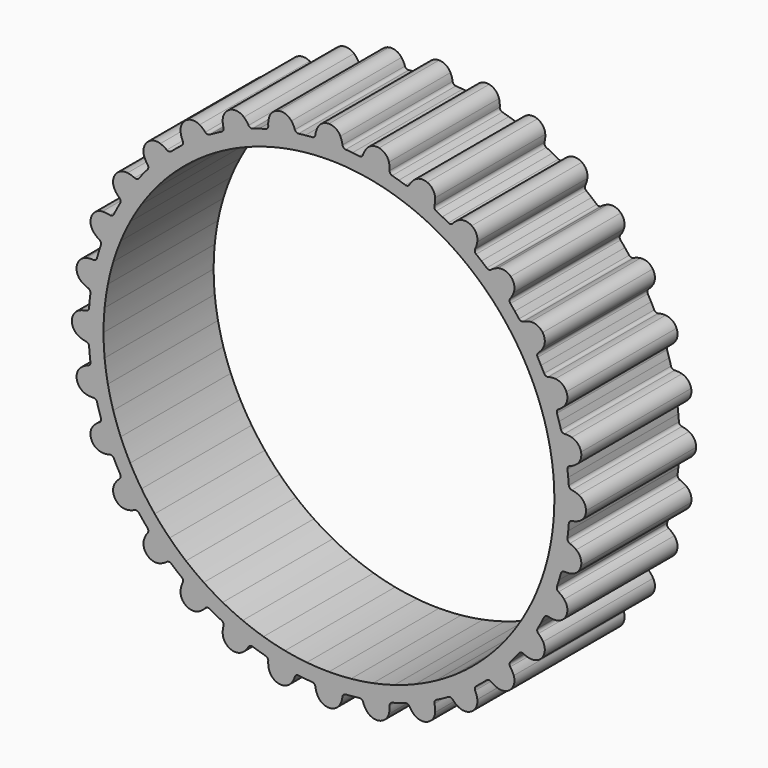
from build123d import *

# Parameters (mm, degrees)
F1_DEPTH = 6


with BuildPart() as f1:
    # F0 (on Front) → F1 (new body)
    with BuildSketch(Plane.XZ):
        with BuildLine():
            ThreePointArc((3.4477694654, 1.8728249677), (3.2430424726, 2.1002617792), (2.9488930609, 2.1846227205))
            ThreePointArc((2.9488930609, 2.1846227205), (2.6547436492, 2.1002617792), (2.4500166564, 1.8728249677))
            ThreePointArc((2.4500166564, 1.8728249677), (2.3912353576, 1.722531948), (2.3573945613, 1.5647408414))
            ThreePointArc((2.3573945613, 1.5647408414), (2.3114632827, 1.4750180124), (2.2191156309, 1.4346227205))
            ThreePointArc((2.2191156309, 1.4346227205), (2.0704486575, 1.4231811487), (1.921959525, 1.4096254825))
            Line((1.921959525, 1.4096254825), (1.9861895431, 0.7573388326))
            ThreePointArc((1.9861895431, 0.7573388326), (2.466961056, 0.792794628), (2.9488930609, 0.8046227205))
            ThreePointArc((2.9488930609, 0.8046227205), (3.4308250658, 0.792794628), (3.9115965787, 0.7573388326))
            Line((3.9115965787, 0.7573388326), (3.9758265968, 1.4096254825))
            ThreePointArc((3.9758265968, 1.4096254825), (3.8273374643, 1.4231811487), (3.6786704909, 1.4346227205))
            ThreePointArc((3.6786704909, 1.4346227205), (3.5863228391, 1.4750180124), (3.5403915604, 1.5647408414))
            ThreePointArc((3.5403915604, 1.5647408414), (3.5065507642, 1.722531948), (3.4477694654, 1.8728249677))
        make_face()
        with BuildLine():
            ThreePointArc((3.9762892721, 1.4095799129), (3.9760579347, 1.4096027003), (3.9758265968, 1.4096254825))
            Line((3.9758265968, 1.4096254825), (3.9115965787, 0.7573388326))
            ThreePointArc((3.9115965787, 0.7573388326), (3.9118134475, 0.7573174753), (3.9120303158, 0.7572961132))
            Line((3.9120303158, 0.7572961132), (3.9762892721, 1.4095799129))
        make_face()
        with BuildLine():
            Line((1.9861895431, 0.7573388326), (1.921959525, 1.4096254825))
            ThreePointArc((1.921959525, 1.4096254825), (1.9217281871, 1.4096027003), (1.9214968497, 1.4095799129))
            Line((1.9214968497, 1.4095799129), (1.985755806, 0.7572961132))
            ThreePointArc((1.985755806, 0.7572961132), (1.9859726743, 0.7573174753), (1.9861895431, 0.7573388326))
        make_face()
        with BuildLine():
            ThreePointArc((4.2726123259, 1.3761245556), (4.1245698068, 1.3939063182), (3.9762892721, 1.4095799129))
            Line((3.9762892721, 1.4095799129), (3.9120303158, 0.7572961132))
            ThreePointArc((3.9120303158, 0.7572961132), (4.3904810215, 0.6982767662), (4.8654603844, 0.6158573151))
            ThreePointArc((4.8654603844, 0.6158573151), (5.3358246545, 0.5102362261), (5.8004411951, 0.3816678346))
            Line((5.8004411951, 0.3816678346), (5.990691864, 1.0088903245))
            ThreePointArc((5.990691864, 1.0088903245), (5.8477004879, 1.0511543151), (5.7041222486, 1.091379528))
            ThreePointArc((5.7041222486, 1.091379528), (5.6214297616, 1.1490147689), (5.5938850951, 1.2459743468))
            ThreePointArc((5.5938850951, 1.2459743468), (5.5914780581, 1.4073355534), (5.563146939, 1.5662083973))
            ThreePointArc((5.563146939, 1.5662083973), (5.4067244388, 1.8292153292), (5.1346850288, 1.9693410021))
            ThreePointArc((5.1346850288, 1.9693410021), (4.8297296123, 1.9439867361), (4.5845656705, 1.7608603141))
            ThreePointArc((4.5845656705, 1.7608603141), (4.4975931243, 1.6249227952), (4.4336190516, 1.4767656123))
            ThreePointArc((4.4336190516, 1.4767656123), (4.371066274, 1.3977275303), (4.2726123259, 1.3761245556))
        make_face()
        with BuildLine():
            Line((1.985755806, 0.7572961132), (1.9214968497, 1.4095799129))
            ThreePointArc((1.9214968497, 1.4095799129), (1.773216315, 1.3939063182), (1.6251737959, 1.3761245556))
            ThreePointArc((1.6251737959, 1.3761245556), (1.5267198478, 1.3977275303), (1.4641670702, 1.4767656123))
            ThreePointArc((1.4641670702, 1.4767656123), (1.4001929975, 1.6249227952), (1.3132204513, 1.7608603141))
            ThreePointArc((1.3132204513, 1.7608603141), (1.0680565095, 1.9439867361), (0.763101093, 1.9693410021))
            ThreePointArc((0.763101093, 1.9693410021), (0.491061683, 1.8292153292), (0.3346391828, 1.5662083973))
            ThreePointArc((0.3346391828, 1.5662083973), (0.3063080637, 1.4073355534), (0.3039010267, 1.2459743468))
            ThreePointArc((0.3039010267, 1.2459743468), (0.2763563602, 1.1490147689), (0.1936638732, 1.091379528))
            ThreePointArc((0.1936638732, 1.091379528), (0.0500856339, 1.0511543151), (-0.0929057422, 1.0088903245))
            Line((-0.0929057422, 1.0088903245), (0.0973449267, 0.3816678346))
            ThreePointArc((0.0973449267, 0.3816678346), (0.5619614672, 0.5102362261), (1.0323257374, 0.6158573151))
            ThreePointArc((1.0323257374, 0.6158573151), (1.5073051003, 0.6982767662), (1.985755806, 0.7572961132))
        make_face()
        with BuildLine():
            Line((5.990691864, 1.0088903245), (5.8004411951, 0.3816678346))
            ThreePointArc((5.8004411951, 0.3816678346), (5.8006497302, 0.3816045787), (5.8008582639, 0.3815413182))
            Line((5.8008582639, 0.3815413182), (5.991136759, 1.0087553671))
            ThreePointArc((5.991136759, 1.0087553671), (5.9909143122, 1.0088228483), (5.990691864, 1.0088903245))
        make_face()
        with BuildLine():
            ThreePointArc((0.0969278578, 0.3815413182), (0.0971363915, 0.3816045787), (0.0973449267, 0.3816678346))
            Line((0.0973449267, 0.3816678346), (-0.0929057422, 1.0088903245))
            ThreePointArc((-0.0929057422, 1.0088903245), (-0.0931281904, 1.0088228483), (-0.0933506372, 1.0087553671))
            Line((-0.0933506372, 1.0087553671), (0.0969278578, 0.3815413182))
        make_face()
        with BuildLine():
            Line((5.991136759, 1.0087553671), (5.8008582639, 0.3815413182))
            ThreePointArc((5.8008582639, 0.3815413182), (6.2586015701, 0.2303149091), (6.7083751005, 0.0568152479))
            ThreePointArc((6.7083751005, 0.0568152479), (7.1490958008, -0.1385398785), (7.5797024159, -0.3552800549))
            Line((7.5797024159, -0.3552800549), (7.8886625091, 0.2227744665))
            ThreePointArc((7.8886625091, 0.2227744665), (7.7566639677, 0.2921225999), (7.6236920937, 0.3595856216))
            ThreePointArc((7.6236920937, 0.3595856216), (7.5538325974, 0.4322459214), (7.5457330692, 0.532716146))
            ThreePointArc((7.5457330692, 0.532716146), (7.5748522925, 0.6914464319), (7.5780601022, 0.8527937058))
            ThreePointArc((7.5780601022, 0.8527937058), (7.4759533235, 1.1412635492), (7.2364782371, 1.3317690027))
            ThreePointArc((7.2364782371, 1.3317690027), (6.9324360816, 1.3663957622), (6.6562567035, 1.2346171754))
            ThreePointArc((6.6562567035, 1.2346171754), (6.544435216, 1.1182591599), (6.4527863547, 0.9854294981))
            ThreePointArc((6.4527863547, 0.9854294981), (6.3760159463, 0.9201135522), (6.275239232, 0.9181330851))
            ThreePointArc((6.275239232, 0.9181330851), (6.1335103581, 0.9644548388), (5.991136759, 1.0087553671))
        make_face()
        with BuildLine():
            ThreePointArc((-0.8105889787, 0.0568152479), (-0.3608154483, 0.2303149091), (0.0969278578, 0.3815413182))
            Line((0.0969278578, 0.3815413182), (-0.0933506372, 1.0087553671))
            ThreePointArc((-0.0933506372, 1.0087553671), (-0.2357242363, 0.9644548388), (-0.3774531102, 0.9181330851))
            ThreePointArc((-0.3774531102, 0.9181330851), (-0.4782298245, 0.9201135522), (-0.5550002329, 0.9854294981))
            ThreePointArc((-0.5550002329, 0.9854294981), (-0.6466490943, 1.1182591599), (-0.7584705817, 1.2346171754))
            ThreePointArc((-0.7584705817, 1.2346171754), (-1.0346499598, 1.3663957622), (-1.3386921153, 1.3317690027))
            ThreePointArc((-1.3386921153, 1.3317690027), (-1.5781672017, 1.1412635492), (-1.6802739804, 0.8527937058))
            ThreePointArc((-1.6802739804, 0.8527937058), (-1.6770661707, 0.6914464319), (-1.6479469474, 0.532716146))
            ThreePointArc((-1.6479469474, 0.532716146), (-1.6560464756, 0.4322459214), (-1.7259059719, 0.3595856216))
            ThreePointArc((-1.7259059719, 0.3595856216), (-1.8588778459, 0.2921225999), (-1.9908763873, 0.2227744665))
            Line((-1.9908763873, 0.2227744665), (-1.6819162941, -0.3552800549))
            ThreePointArc((-1.6819162941, -0.3552800549), (-1.251309679, -0.1385398785), (-0.8105889787, 0.0568152479))
        make_face()
        with BuildLine():
            Line((7.8886625091, 0.2227744665), (7.5797024159, -0.3552800549))
            ThreePointArc((7.5797024159, -0.3552800549), (7.5798946035, -0.3553827786), (7.5800867887, -0.3554855065))
            Line((7.5800867887, -0.3554855065), (7.8890725266, 0.2225553075))
            ThreePointArc((7.8890725266, 0.2225553075), (7.8888675191, 0.2226648893), (7.8886625091, 0.2227744665))
        make_face()
        with BuildLine():
            ThreePointArc((-1.682300667, -0.3554855065), (-1.6821084817, -0.3553827786), (-1.6819162941, -0.3552800549))
            Line((-1.6819162941, -0.3552800549), (-1.9908763873, 0.2227744665))
            ThreePointArc((-1.9908763873, 0.2227744665), (-1.9910813973, 0.2226648893), (-1.9912864048, 0.2225553075))
            Line((-1.9912864048, 0.2225553075), (-1.682300667, -0.3554855065))
        make_face()
        with BuildLine():
            Line((7.8890725266, 0.2225553075), (7.5800867887, -0.3554855065))
            ThreePointArc((7.5800867887, -0.3554855065), (7.9995318767, -0.5931074315), (8.4068150301, -0.8510198083))
            ThreePointArc((8.4068150301, -0.8510198083), (8.8009555112, -1.128601584), (9.1810042302, -1.4251843419))
            Line((9.1810042302, -1.4251843419), (9.5968005845, -0.9185121001))
            ThreePointArc((9.5968005845, -0.9185121001), (9.4808675077, -0.8247448337), (9.3636120337, -0.7326365694))
            ThreePointArc((9.3636120337, -0.7326365694), (9.3092701892, -0.6477435052), (9.3209270597, -0.5476236482))
            ThreePointArc((9.3209270597, -0.5476236482), (9.3804535079, -0.3976241989), (9.4150769721, -0.2400029802))
            ThreePointArc((9.4150769721, -0.2400029802), (9.3712098212, 0.0628440404), (9.1735019516, 0.2964082567))
            ThreePointArc((9.1735019516, 0.2964082567), (8.8820572265, 0.3896853548), (8.5854758308, 0.3143187804))
            ThreePointArc((8.5854758308, 0.3143187804), (8.4531026392, 0.2220118415), (8.3373010035, 0.1096142703))
            ThreePointArc((8.3373010035, 0.1096142703), (8.2492632081, 0.0605305157), (8.1500365201, 0.0782486643))
            ThreePointArc((8.1500365201, 0.0782486643), (8.0200678527, 0.1513302902), (7.8890725266, 0.2225553075))
        make_face()
        with BuildLine():
            ThreePointArc((-2.5090289083, -0.8510198083), (-2.1017457549, -0.5931074315), (-1.682300667, -0.3554855065))
            Line((-1.682300667, -0.3554855065), (-1.9912864048, 0.2225553075))
            ThreePointArc((-1.9912864048, 0.2225553075), (-2.1222817309, 0.1513302902), (-2.2522503983, 0.0782486643))
            ThreePointArc((-2.2522503983, 0.0782486643), (-2.3514770863, 0.0605305157), (-2.4395148818, 0.1096142703))
            ThreePointArc((-2.4395148818, 0.1096142703), (-2.5553165174, 0.2220118415), (-2.687689709, 0.3143187804))
            ThreePointArc((-2.687689709, 0.3143187804), (-2.9842711047, 0.3896853548), (-3.2757158299, 0.2964082567))
            ThreePointArc((-3.2757158299, 0.2964082567), (-3.4734236994, 0.0628440404), (-3.5172908503, -0.2400029802))
            ThreePointArc((-3.5172908503, -0.2400029802), (-3.4826673861, -0.3976241989), (-3.423140938, -0.5476236482))
            ThreePointArc((-3.423140938, -0.5476236482), (-3.4114840674, -0.6477435052), (-3.4658259119, -0.7326365694))
            ThreePointArc((-3.4658259119, -0.7326365694), (-3.583081386, -0.8247448337), (-3.6990144627, -0.9185121001))
            Line((-3.6990144627, -0.9185121001), (-3.2832181084, -1.4251843419))
            ThreePointArc((-3.2832181084, -1.4251843419), (-2.9031693894, -1.128601584), (-2.5090289083, -0.8510198083))
        make_face()
        with BuildLine():
            Line((9.5968005845, -0.9185121001), (9.1810042302, -1.4251843419))
            ThreePointArc((9.1810042302, -1.4251843419), (9.1811726845, -1.4253225857), (9.1813411358, -1.4254608332))
            Line((9.1813411358, -1.4254608332), (9.5971599679, -0.9188070384))
            ThreePointArc((9.5971599679, -0.9188070384), (9.5969802778, -0.9186595673), (9.5968005845, -0.9185121001))
        make_face()
        with BuildLine():
            ThreePointArc((-3.283555014, -1.4254608332), (-3.2833865627, -1.4253225857), (-3.2832181084, -1.4251843419))
            Line((-3.2832181084, -1.4251843419), (-3.6990144627, -0.9185121001))
            ThreePointArc((-3.6990144627, -0.9185121001), (-3.699194156, -0.9186595673), (-3.6993738461, -0.9188070384))
            Line((-3.6993738461, -0.9188070384), (-3.283555014, -1.4254608332))
        make_face()
        with BuildLine():
            Line((9.5971599679, -0.9188070384), (9.1813411358, -1.4254608332))
            ThreePointArc((9.1813411358, -1.4254608332), (9.5463689662, -1.7403465968), (9.8955100793, -2.0727602612))
            ThreePointArc((9.8955100793, -2.0727602612), (10.2279237436, -2.4219013743), (10.5428095072, -2.7869292046))
            Line((10.5428095072, -2.7869292046), (11.049463302, -2.3711103725))
            ThreePointArc((11.049463302, -2.3711103725), (10.954050933, -2.2565273965), (10.8570179209, -2.1433135585))
            ThreePointArc((10.8570179209, -2.1433135585), (10.820282055, -2.0494501229), (10.8512473572, -1.9535281834))
            ThreePointArc((10.8512473572, -1.9535281834), (10.9388934622, -1.8180239654), (11.0036020205, -1.6701860971))
            ThreePointArc((11.0036020205, -1.6701860971), (11.0196602874, -1.3646001405), (10.8713174373, -1.0969529031))
            ThreePointArc((10.8713174373, -1.0969529031), (10.6036702, -0.9486100531), (10.2980842433, -0.9646683199))
            ThreePointArc((10.2980842433, -0.9646683199), (10.150246375, -1.0293768782), (10.014742157, -1.1170229833))
            ThreePointArc((10.014742157, -1.1170229833), (9.9188202176, -1.1479882854), (9.8249567819, -1.1112524195))
            ThreePointArc((9.8249567819, -1.1112524195), (9.7117429439, -1.0142194074), (9.5971599679, -0.9188070384))
        make_face()
        with BuildLine():
            ThreePointArc((-3.9977239575, -2.0727602612), (-3.6485828444, -1.7403465968), (-3.283555014, -1.4254608332))
            Line((-3.283555014, -1.4254608332), (-3.6993738461, -0.9188070384))
            ThreePointArc((-3.6993738461, -0.9188070384), (-3.8139568221, -1.0142194074), (-3.9271706601, -1.1112524195))
            ThreePointArc((-3.9271706601, -1.1112524195), (-4.0210340958, -1.1479882854), (-4.1169560352, -1.1170229833))
            ThreePointArc((-4.1169560352, -1.1170229833), (-4.2524602532, -1.0293768782), (-4.4002981216, -0.9646683199))
            ThreePointArc((-4.4002981216, -0.9646683199), (-4.7058840782, -0.9486100531), (-4.9735313155, -1.0969529031))
            ThreePointArc((-4.9735313155, -1.0969529031), (-5.1218741656, -1.3646001405), (-5.1058158987, -1.6701860971))
            ThreePointArc((-5.1058158987, -1.6701860971), (-5.0411073404, -1.8180239654), (-4.9534612354, -1.9535281834))
            ThreePointArc((-4.9534612354, -1.9535281834), (-4.9224959332, -2.0494501229), (-4.9592317991, -2.1433135585))
            ThreePointArc((-4.9592317991, -2.1433135585), (-5.0562648112, -2.2565273965), (-5.1516771802, -2.3711103725))
            Line((-5.1516771802, -2.3711103725), (-4.6450233854, -2.7869292046))
            ThreePointArc((-4.6450233854, -2.7869292046), (-4.3301376218, -2.4219013743), (-3.9977239575, -2.0727602612))
        make_face()
        with BuildLine():
            Line((11.049463302, -2.3711103725), (10.5428095072, -2.7869292046))
            ThreePointArc((10.5428095072, -2.7869292046), (10.5429477547, -2.7870976559), (10.5430859985, -2.7872661102))
            Line((10.5430859985, -2.7872661102), (11.0497582403, -2.3714697559))
            ThreePointArc((11.0497582403, -2.3714697559), (11.0496107731, -2.3712900626), (11.049463302, -2.3711103725))
        make_face()
        with BuildLine():
            ThreePointArc((-4.6452998767, -2.7872661102), (-4.6451616329, -2.7870976559), (-4.6450233854, -2.7869292046))
            Line((-4.6450233854, -2.7869292046), (-5.1516771802, -2.3711103725))
            ThreePointArc((-5.1516771802, -2.3711103725), (-5.1518246513, -2.3712900626), (-5.1519721185, -2.3714697559))
            Line((-5.1519721185, -2.3714697559), (-4.6452998767, -2.7872661102))
        make_face()
        with BuildLine():
            Line((11.0497582403, -2.3714697559), (10.5430859985, -2.7872661102))
            ThreePointArc((10.5430859985, -2.7872661102), (10.8396687564, -3.1673148292), (11.1172505322, -3.5614553104))
            ThreePointArc((11.1172505322, -3.5614553104), (11.3751629089, -3.9687384637), (11.6127848339, -4.3881835517))
            Line((11.6127848339, -4.3881835517), (12.190825648, -4.0791978138))
            ThreePointArc((12.190825648, -4.0791978138), (12.1196006306, -3.9482024878), (12.0465190048, -3.8182338203))
            ThreePointArc((12.0465190048, -3.8182338203), (12.0288008561, -3.7190071324), (12.0778846107, -3.6309693369))
            ThreePointArc((12.0778846107, -3.6309693369), (12.1902821819, -3.5151677012), (12.2825891208, -3.3827945096))
            ThreePointArc((12.2825891208, -3.3827945096), (12.3579556952, -3.0862131139), (12.2646785971, -2.7947683888))
            ThreePointArc((12.2646785971, -2.7947683888), (12.0311143808, -2.5970605193), (11.7282673602, -2.5531933683))
            ThreePointArc((11.7282673602, -2.5531933683), (11.5706461416, -2.5878168325), (11.4206466922, -2.6473432807))
            ThreePointArc((11.4206466922, -2.6473432807), (11.3205268352, -2.6590001512), (11.2356337711, -2.6046583067))
            ThreePointArc((11.2356337711, -2.6046583067), (11.1435255068, -2.4874028327), (11.0497582403, -2.3714697559))
        make_face()
        with BuildLine():
            ThreePointArc((-5.2194644104, -3.5614553104), (-4.9418826346, -3.1673148292), (-4.6452998767, -2.7872661102))
            Line((-4.6452998767, -2.7872661102), (-5.1519721185, -2.3714697559))
            ThreePointArc((-5.1519721185, -2.3714697559), (-5.245739385, -2.4874028327), (-5.3378476493, -2.6046583067))
            ThreePointArc((-5.3378476493, -2.6046583067), (-5.4227407134, -2.6590001512), (-5.5228605705, -2.6473432807))
            ThreePointArc((-5.5228605705, -2.6473432807), (-5.6728600198, -2.5878168325), (-5.8304812384, -2.5531933683))
            ThreePointArc((-5.8304812384, -2.5531933683), (-6.133328259, -2.5970605193), (-6.3668924753, -2.7947683888))
            ThreePointArc((-6.3668924753, -2.7947683888), (-6.4601695734, -3.0862131139), (-6.384802999, -3.3827945096))
            ThreePointArc((-6.384802999, -3.3827945096), (-6.2924960601, -3.5151677012), (-6.1800984889, -3.6309693369))
            ThreePointArc((-6.1800984889, -3.6309693369), (-6.1310147343, -3.7190071324), (-6.148732883, -3.8182338203))
            ThreePointArc((-6.148732883, -3.8182338203), (-6.2218145088, -3.9482024878), (-6.2930395262, -4.0791978138))
            Line((-6.2930395262, -4.0791978138), (-5.7149987122, -4.3881835517))
            ThreePointArc((-5.7149987122, -4.3881835517), (-5.4773767871, -3.9687384637), (-5.2194644104, -3.5614553104))
        make_face()
        with BuildLine():
            Line((12.190825648, -4.0791978138), (11.6127848339, -4.3881835517))
            ThreePointArc((11.6127848339, -4.3881835517), (11.6128875619, -4.388375737), (11.6129902855, -4.3885679245))
            Line((11.6129902855, -4.3885679245), (12.1910448069, -4.0796078314))
            ThreePointArc((12.1910448069, -4.0796078314), (12.1909352297, -4.0794028214), (12.190825648, -4.0791978138))
        make_face()
        with BuildLine():
            ThreePointArc((-5.7152041637, -4.3885679245), (-5.7151014401, -4.388375737), (-5.7149987122, -4.3881835517))
            Line((-5.7149987122, -4.3881835517), (-6.2930395262, -4.0791978138))
            ThreePointArc((-6.2930395262, -4.0791978138), (-6.2931491079, -4.0794028214), (-6.2932586851, -4.0796078314))
            Line((-6.2932586851, -4.0796078314), (-5.7152041637, -4.3885679245))
        make_face()
        with BuildLine():
            Line((12.1910448069, -4.0796078314), (11.6129902855, -4.3885679245))
            ThreePointArc((11.6129902855, -4.3885679245), (11.8297304619, -4.8191745396), (12.0250855883, -5.25989524))
            ThreePointArc((12.0250855883, -5.25989524), (12.1985852495, -5.7096687704), (12.3498116586, -6.1674120765))
            Line((12.3498116586, -6.1674120765), (12.9770257076, -5.9771335815))
            ThreePointArc((12.9770257076, -5.9771335815), (12.9327251793, -5.8347599823), (12.8864034255, -5.6930311085))
            ThreePointArc((12.8864034255, -5.6930311085), (12.8883838927, -5.5922543941), (12.9536998385, -5.5154839857))
            ThreePointArc((12.9536998385, -5.5154839857), (13.0865295003, -5.4238351244), (13.2028875158, -5.3120136369))
            ThreePointArc((13.2028875158, -5.3120136369), (13.3346661027, -5.0358342589), (13.3000393432, -4.7317921033))
            ThreePointArc((13.3000393432, -4.7317921033), (13.1095338897, -4.4923170169), (12.8210640463, -4.3902102382))
            ThreePointArc((12.8210640463, -4.3902102382), (12.6597167724, -4.393418048), (12.5009864865, -4.4225372712))
            ThreePointArc((12.5009864865, -4.4225372712), (12.4005162618, -4.4144377431), (12.327855962, -4.3445782467))
            ThreePointArc((12.327855962, -4.3445782467), (12.2603929404, -4.2116063728), (12.1910448069, -4.0796078314))
        make_face()
        with BuildLine():
            ThreePointArc((-6.1272994665, -5.25989524), (-5.9319443402, -4.8191745396), (-5.7152041637, -4.3885679245))
            Line((-5.7152041637, -4.3885679245), (-6.2932586851, -4.0796078314))
            ThreePointArc((-6.2932586851, -4.0796078314), (-6.3626068186, -4.2116063728), (-6.4300698402, -4.3445782467))
            ThreePointArc((-6.4300698402, -4.3445782467), (-6.50273014, -4.4144377431), (-6.6032003647, -4.4225372712))
            ThreePointArc((-6.6032003647, -4.4225372712), (-6.7619306506, -4.393418048), (-6.9232779245, -4.3902102382))
            ThreePointArc((-6.9232779245, -4.3902102382), (-7.2117477679, -4.4923170169), (-7.4022532214, -4.7317921033))
            ThreePointArc((-7.4022532214, -4.7317921033), (-7.4368799809, -5.0358342589), (-7.3051013941, -5.3120136369))
            ThreePointArc((-7.3051013941, -5.3120136369), (-7.1887433785, -5.4238351244), (-7.0559137168, -5.5154839857))
            ThreePointArc((-7.0559137168, -5.5154839857), (-6.9905977709, -5.5922543941), (-6.9886173038, -5.6930311085))
            ThreePointArc((-6.9886173038, -5.6930311085), (-7.0349390575, -5.8347599823), (-7.0792395858, -5.9771335815))
            Line((-7.0792395858, -5.9771335815), (-6.4520255368, -6.1674120765))
            ThreePointArc((-6.4520255368, -6.1674120765), (-6.3007991277, -5.7096687704), (-6.1272994665, -5.25989524))
        make_face()
        with BuildLine():
            Line((12.9770257076, -5.9771335815), (12.3498116586, -6.1674120765))
            ThreePointArc((12.3498116586, -6.1674120765), (12.3498749191, -6.1676206102), (12.349938175, -6.1678291453))
            Line((12.349938175, -6.1678291453), (12.977160665, -5.9775784764))
            ThreePointArc((12.977160665, -5.9775784764), (12.9770931887, -5.9773560282), (12.9770257076, -5.9771335815))
        make_face()
        with BuildLine():
            ThreePointArc((-6.4521520532, -6.1678291453), (-6.4520887973, -6.1676206102), (-6.4520255368, -6.1674120765))
            Line((-6.4520255368, -6.1674120765), (-7.0792395858, -5.9771335815))
            ThreePointArc((-7.0792395858, -5.9771335815), (-7.0793070669, -5.9773560282), (-7.0793745432, -5.9775784764))
            Line((-7.0793745432, -5.9775784764), (-6.4521520532, -6.1678291453))
        make_face()
        with BuildLine():
            Line((12.977160665, -5.9775784764), (12.349938175, -6.1678291453))
            ThreePointArc((12.349938175, -6.1678291453), (12.4785065666, -6.6324456859), (12.5841276556, -7.102809956))
            ThreePointArc((12.5841276556, -7.102809956), (12.6665471066, -7.577789319), (12.7255664536, -8.0562400246))
            Line((12.7255664536, -8.0562400246), (13.3778502534, -7.9919810683))
            ThreePointArc((13.3778502534, -7.9919810683), (13.3621766586, -7.8437005336), (13.3443948961, -7.6956580145))
            ThreePointArc((13.3443948961, -7.6956580145), (13.3659978707, -7.5972040665), (13.4450359527, -7.5346512888))
            ThreePointArc((13.4450359527, -7.5346512888), (13.5931931356, -7.4706772161), (13.7291306545, -7.3837046699))
            ThreePointArc((13.7291306545, -7.3837046699), (13.9122570765, -7.1385407281), (13.9376113425, -6.8335853117))
            ThreePointArc((13.9376113425, -6.8335853117), (13.7974856696, -6.5615459016), (13.5344787377, -6.4051234014))
            ThreePointArc((13.5344787377, -6.4051234014), (13.3756058938, -6.3767922824), (13.2142446872, -6.3743852453))
            ThreePointArc((13.2142446872, -6.3743852453), (13.1172851093, -6.3468405789), (13.0596498684, -6.2641480919))
            ThreePointArc((13.0596498684, -6.2641480919), (13.0194246555, -6.1205698526), (12.977160665, -5.9775784764))
        make_face()
        with BuildLine():
            ThreePointArc((-6.6863415338, -7.102809956), (-6.5807204448, -6.6324456859), (-6.4521520532, -6.1678291453))
            Line((-6.4521520532, -6.1678291453), (-7.0793745432, -5.9775784764))
            ThreePointArc((-7.0793745432, -5.9775784764), (-7.1216385337, -6.1205698526), (-7.1618637466, -6.2641480919))
            ThreePointArc((-7.1618637466, -6.2641480919), (-7.2194989875, -6.3468405789), (-7.3164585654, -6.3743852453))
            ThreePointArc((-7.3164585654, -6.3743852453), (-7.477819772, -6.3767922824), (-7.6366926159, -6.4051234014))
            ThreePointArc((-7.6366926159, -6.4051234014), (-7.8996995478, -6.5615459016), (-8.0398252207, -6.8335853117))
            ThreePointArc((-8.0398252207, -6.8335853117), (-8.0144709547, -7.1385407281), (-7.8313445327, -7.3837046699))
            ThreePointArc((-7.8313445327, -7.3837046699), (-7.6954070139, -7.4706772161), (-7.5472498309, -7.5346512888))
            ThreePointArc((-7.5472498309, -7.5346512888), (-7.4682117489, -7.5972040665), (-7.4466087743, -7.6956580145))
            ThreePointArc((-7.4466087743, -7.6956580145), (-7.4643905368, -7.8437005336), (-7.4800641316, -7.9919810683))
            Line((-7.4800641316, -7.9919810683), (-6.8277803318, -8.0562400246))
            ThreePointArc((-6.8277803318, -8.0562400246), (-6.7687609848, -7.577789319), (-6.6863415338, -7.102809956))
        make_face()
        with BuildLine():
            Line((13.3778502534, -7.9919810683), (12.7255664536, -8.0562400246))
            ThreePointArc((12.7255664536, -8.0562400246), (12.7255878157, -8.0564568929), (12.725609173, -8.0566737617))
            Line((12.725609173, -8.0566737617), (13.3778958229, -7.9924437437))
            ThreePointArc((13.3778958229, -7.9924437437), (13.3778730407, -7.9922124057), (13.3778502534, -7.9919810683))
        make_face()
        with BuildLine():
            ThreePointArc((-6.8278230512, -8.0566737617), (-6.8278016939, -8.0564568929), (-6.8277803318, -8.0562400246))
            Line((-6.8277803318, -8.0562400246), (-7.4800641316, -7.9919810683))
            ThreePointArc((-7.4800641316, -7.9919810683), (-7.4800869189, -7.9922124057), (-7.4801097011, -7.9924437437))
            Line((-7.4801097011, -7.9924437437), (-6.8278230512, -8.0566737617))
        make_face()
        with BuildLine():
            Line((13.3778958229, -7.9924437437), (12.725609173, -8.0566737617))
            ThreePointArc((12.725609173, -8.0566737617), (12.7610649684, -8.5374452747), (12.7728930609, -9.0193772795))
            ThreePointArc((12.7728930609, -9.0193772795), (12.7610649684, -9.5013092844), (12.725609173, -9.9820807974))
            Line((12.725609173, -9.9820807974), (13.3778958229, -10.0463108154))
            ThreePointArc((13.3778958229, -10.0463108154), (13.3914514891, -9.897821683), (13.4028930609, -9.7491547095))
            ThreePointArc((13.4028930609, -9.7491547095), (13.4432883529, -9.6568070578), (13.5330111818, -9.6108757791))
            ThreePointArc((13.5330111818, -9.6108757791), (13.6908022885, -9.5770349828), (13.8410953081, -9.518253684))
            ThreePointArc((13.8410953081, -9.518253684), (14.0685321196, -9.3135266912), (14.1528930609, -9.0193772795))
            ThreePointArc((14.1528930609, -9.0193772795), (14.0685321196, -8.7252278678), (13.8410953081, -8.520500875))
            ThreePointArc((13.8410953081, -8.520500875), (13.6908022885, -8.4617195762), (13.5330111818, -8.42787878))
            ThreePointArc((13.5330111818, -8.42787878), (13.4432883529, -8.3819475013), (13.4028930609, -8.2895998495))
            ThreePointArc((13.4028930609, -8.2895998495), (13.3914514891, -8.1409328761), (13.3778958229, -7.9924437437))
        make_face()
        with BuildLine():
            ThreePointArc((-6.8751069391, -9.0193772795), (-6.8632788466, -8.5374452747), (-6.8278230512, -8.0566737617))
            Line((-6.8278230512, -8.0566737617), (-7.4801097011, -7.9924437437))
            ThreePointArc((-7.4801097011, -7.9924437437), (-7.4936653674, -8.1409328761), (-7.5051069391, -8.2895998495))
            ThreePointArc((-7.5051069391, -8.2895998495), (-7.5455022311, -8.3819475013), (-7.63522506, -8.42787878))
            ThreePointArc((-7.63522506, -8.42787878), (-7.7930161667, -8.4617195762), (-7.9433091863, -8.520500875))
            ThreePointArc((-7.9433091863, -8.520500875), (-8.1707459978, -8.7252278678), (-8.2551069391, -9.0193772795))
            ThreePointArc((-8.2551069391, -9.0193772795), (-8.1707459978, -9.3135266912), (-7.9433091863, -9.518253684))
            ThreePointArc((-7.9433091863, -9.518253684), (-7.7930161667, -9.5770349828), (-7.63522506, -9.6108757791))
            ThreePointArc((-7.63522506, -9.6108757791), (-7.5455022311, -9.6568070578), (-7.5051069391, -9.7491547095))
            ThreePointArc((-7.5051069391, -9.7491547095), (-7.4936653674, -9.897821683), (-7.4801097011, -10.0463108154))
            Line((-7.4801097011, -10.0463108154), (-6.8278230512, -9.9820807974))
            ThreePointArc((-6.8278230512, -9.9820807974), (-6.8632788466, -9.5013092844), (-6.8751069391, -9.0193772795))
        make_face()
        with BuildLine():
            Line((13.3778958229, -10.0463108154), (12.725609173, -9.9820807974))
            ThreePointArc((12.725609173, -9.9820807974), (12.7255878157, -9.9822976661), (12.7255664536, -9.9825145344))
            Line((12.7255664536, -9.9825145344), (13.3778502534, -10.0467734907))
            ThreePointArc((13.3778502534, -10.0467734907), (13.3778730407, -10.0465421533), (13.3778958229, -10.0463108154))
        make_face()
        with BuildLine():
            ThreePointArc((-6.8277803318, -9.9825145344), (-6.8278016939, -9.9822976661), (-6.8278230512, -9.9820807974))
            Line((-6.8278230512, -9.9820807974), (-7.4801097011, -10.0463108154))
            ThreePointArc((-7.4801097011, -10.0463108154), (-7.4800869189, -10.0465421533), (-7.4800641316, -10.0467734907))
            Line((-7.4800641316, -10.0467734907), (-6.8277803318, -9.9825145344))
        make_face()
        with BuildLine():
            Line((13.3778502534, -10.0467734907), (12.7255664536, -9.9825145344))
            ThreePointArc((12.7255664536, -9.9825145344), (12.6665471066, -10.4609652401), (12.5841276556, -10.935944603))
            ThreePointArc((12.5841276556, -10.935944603), (12.4785065666, -11.4063088732), (12.349938175, -11.8709254138))
            Line((12.349938175, -11.8709254138), (12.977160665, -12.0611760826))
            ThreePointArc((12.977160665, -12.0611760826), (13.0194246555, -11.9181847065), (13.0596498684, -11.7746064672))
            ThreePointArc((13.0596498684, -11.7746064672), (13.1172851093, -11.6919139802), (13.2142446872, -11.6643693137))
            ThreePointArc((13.2142446872, -11.6643693137), (13.3756058938, -11.6619622767), (13.5344787377, -11.6336311577))
            ThreePointArc((13.5344787377, -11.6336311577), (13.7974856696, -11.4772086574), (13.9376113425, -11.2051692474))
            ThreePointArc((13.9376113425, -11.2051692474), (13.9122570765, -10.900213831), (13.7291306545, -10.6550498891))
            ThreePointArc((13.7291306545, -10.6550498891), (13.5931931356, -10.5680773429), (13.4450359527, -10.5041032703))
            ThreePointArc((13.4450359527, -10.5041032703), (13.3659978707, -10.4415504926), (13.3443948961, -10.3430965446))
            ThreePointArc((13.3443948961, -10.3430965446), (13.3621766586, -10.1950540254), (13.3778502534, -10.0467734907))
        make_face()
        with BuildLine():
            ThreePointArc((-6.6863415338, -10.935944603), (-6.7687609848, -10.4609652401), (-6.8277803318, -9.9825145344))
            Line((-6.8277803318, -9.9825145344), (-7.4800641316, -10.0467734907))
            ThreePointArc((-7.4800641316, -10.0467734907), (-7.4643905368, -10.1950540254), (-7.4466087743, -10.3430965446))
            ThreePointArc((-7.4466087743, -10.3430965446), (-7.4682117489, -10.4415504926), (-7.5472498309, -10.5041032703))
            ThreePointArc((-7.5472498309, -10.5041032703), (-7.6954070139, -10.5680773429), (-7.8313445327, -10.6550498891))
            ThreePointArc((-7.8313445327, -10.6550498891), (-8.0144709547, -10.900213831), (-8.0398252207, -11.2051692474))
            ThreePointArc((-8.0398252207, -11.2051692474), (-7.8996995478, -11.4772086574), (-7.6366926159, -11.6336311577))
            ThreePointArc((-7.6366926159, -11.6336311577), (-7.477819772, -11.6619622767), (-7.3164585654, -11.6643693137))
            ThreePointArc((-7.3164585654, -11.6643693137), (-7.2194989875, -11.6919139802), (-7.1618637466, -11.7746064672))
            ThreePointArc((-7.1618637466, -11.7746064672), (-7.1216385337, -11.9181847065), (-7.0793745432, -12.0611760826))
            Line((-7.0793745432, -12.0611760826), (-6.4521520532, -11.8709254138))
            ThreePointArc((-6.4521520532, -11.8709254138), (-6.5807204448, -11.4063088732), (-6.6863415338, -10.935944603))
        make_face()
        with BuildLine():
            Line((12.977160665, -12.0611760826), (12.349938175, -11.8709254138))
            ThreePointArc((12.349938175, -11.8709254138), (12.3498749191, -11.8711339489), (12.3498116586, -11.8713424826))
            Line((12.3498116586, -11.8713424826), (12.9770257076, -12.0616209776))
            ThreePointArc((12.9770257076, -12.0616209776), (12.9770931887, -12.0613985309), (12.977160665, -12.0611760826))
        make_face()
        with BuildLine():
            ThreePointArc((-6.4520255368, -11.8713424826), (-6.4520887973, -11.8711339489), (-6.4521520532, -11.8709254138))
            Line((-6.4521520532, -11.8709254138), (-7.0793745432, -12.0611760826))
            ThreePointArc((-7.0793745432, -12.0611760826), (-7.0793070669, -12.0613985309), (-7.0792395858, -12.0616209776))
            Line((-7.0792395858, -12.0616209776), (-6.4520255368, -11.8713424826))
        make_face()
        with BuildLine():
            Line((12.9770257076, -12.0616209776), (12.3498116586, -11.8713424826))
            ThreePointArc((12.3498116586, -11.8713424826), (12.1985852495, -12.3290857887), (12.0250855883, -12.7788593191))
            ThreePointArc((12.0250855883, -12.7788593191), (11.8297304619, -13.2195800194), (11.6129902855, -13.6501866346))
            Line((11.6129902855, -13.6501866346), (12.1910448069, -13.9591467277))
            ThreePointArc((12.1910448069, -13.9591467277), (12.2603929404, -13.8271481863), (12.327855962, -13.6941763124))
            ThreePointArc((12.327855962, -13.6941763124), (12.4005162618, -13.624316816), (12.5009864865, -13.6162172879))
            ThreePointArc((12.5009864865, -13.6162172879), (12.6597167724, -13.6453365111), (12.8210640463, -13.6485443209))
            ThreePointArc((12.8210640463, -13.6485443209), (13.1095338897, -13.5464375422), (13.3000393432, -13.3069624558))
            ThreePointArc((13.3000393432, -13.3069624558), (13.3346661027, -13.0029203002), (13.2028875158, -12.7267409221))
            ThreePointArc((13.2028875158, -12.7267409221), (13.0865295003, -12.6149194347), (12.9536998385, -12.5232705734))
            ThreePointArc((12.9536998385, -12.5232705734), (12.8883838927, -12.4465001649), (12.8864034255, -12.3457234506))
            ThreePointArc((12.8864034255, -12.3457234506), (12.9327251793, -12.2039945768), (12.9770257076, -12.0616209776))
        make_face()
        with BuildLine():
            ThreePointArc((-6.1272994665, -12.7788593191), (-6.3007991277, -12.3290857887), (-6.4520255368, -11.8713424826))
            Line((-6.4520255368, -11.8713424826), (-7.0792395858, -12.0616209776))
            ThreePointArc((-7.0792395858, -12.0616209776), (-7.0349390575, -12.2039945768), (-6.9886173038, -12.3457234506))
            ThreePointArc((-6.9886173038, -12.3457234506), (-6.9905977709, -12.4465001649), (-7.0559137168, -12.5232705734))
            ThreePointArc((-7.0559137168, -12.5232705734), (-7.1887433785, -12.6149194347), (-7.3051013941, -12.7267409221))
            ThreePointArc((-7.3051013941, -12.7267409221), (-7.4368799809, -13.0029203002), (-7.4022532214, -13.3069624558))
            ThreePointArc((-7.4022532214, -13.3069624558), (-7.2117477679, -13.5464375422), (-6.9232779245, -13.6485443209))
            ThreePointArc((-6.9232779245, -13.6485443209), (-6.7619306506, -13.6453365111), (-6.6032003647, -13.6162172879))
            ThreePointArc((-6.6032003647, -13.6162172879), (-6.50273014, -13.624316816), (-6.4300698402, -13.6941763124))
            ThreePointArc((-6.4300698402, -13.6941763124), (-6.3626068186, -13.8271481863), (-6.2932586851, -13.9591467277))
            Line((-6.2932586851, -13.9591467277), (-5.7152041637, -13.6501866346))
            ThreePointArc((-5.7152041637, -13.6501866346), (-5.9319443402, -13.2195800194), (-6.1272994665, -12.7788593191))
        make_face()
        with BuildLine():
            Line((12.1910448069, -13.9591467277), (11.6129902855, -13.6501866346))
            ThreePointArc((11.6129902855, -13.6501866346), (11.6128875619, -13.6503788221), (11.6127848339, -13.6505710074))
            Line((11.6127848339, -13.6505710074), (12.190825648, -13.9595567453))
            ThreePointArc((12.190825648, -13.9595567453), (12.1909352297, -13.9593517377), (12.1910448069, -13.9591467277))
        make_face()
        with BuildLine():
            ThreePointArc((-5.7149987122, -13.6505710074), (-5.7151014401, -13.6503788221), (-5.7152041637, -13.6501866346))
            Line((-5.7152041637, -13.6501866346), (-6.2932586851, -13.9591467277))
            ThreePointArc((-6.2932586851, -13.9591467277), (-6.2931491079, -13.9593517377), (-6.2930395262, -13.9595567453))
            Line((-6.2930395262, -13.9595567453), (-5.7149987122, -13.6505710074))
        make_face()
        with BuildLine():
            Line((12.190825648, -13.9595567453), (11.6127848339, -13.6505710074))
            ThreePointArc((11.6127848339, -13.6505710074), (11.3751629089, -14.0700160954), (11.1172505322, -14.4772992487))
            ThreePointArc((11.1172505322, -14.4772992487), (10.8396687564, -14.8714397299), (10.5430859985, -15.2514884488))
            Line((10.5430859985, -15.2514884488), (11.0497582403, -15.6672848031))
            ThreePointArc((11.0497582403, -15.6672848031), (11.1435255068, -15.5513517264), (11.2356337711, -15.4340962523))
            ThreePointArc((11.2356337711, -15.4340962523), (11.3205268352, -15.3797544079), (11.4206466922, -15.3914112784))
            ThreePointArc((11.4206466922, -15.3914112784), (11.5706461416, -15.4509377265), (11.7282673602, -15.4855611907))
            ThreePointArc((11.7282673602, -15.4855611907), (12.0311143808, -15.4416940398), (12.2646785971, -15.2439861703))
            ThreePointArc((12.2646785971, -15.2439861703), (12.3579556952, -14.9525414452), (12.2825891208, -14.6559600495))
            ThreePointArc((12.2825891208, -14.6559600495), (12.1902821819, -14.5235868578), (12.0778846107, -14.4077852222))
            ThreePointArc((12.0778846107, -14.4077852222), (12.0288008561, -14.3197474267), (12.0465190048, -14.2205207387))
            ThreePointArc((12.0465190048, -14.2205207387), (12.1196006306, -14.0905520713), (12.190825648, -13.9595567453))
        make_face()
        with BuildLine():
            ThreePointArc((-5.2194644104, -14.4772992487), (-5.4773767871, -14.0700160954), (-5.7149987122, -13.6505710074))
            Line((-5.7149987122, -13.6505710074), (-6.2930395262, -13.9595567453))
            ThreePointArc((-6.2930395262, -13.9595567453), (-6.2218145088, -14.0905520713), (-6.148732883, -14.2205207387))
            ThreePointArc((-6.148732883, -14.2205207387), (-6.1310147343, -14.3197474267), (-6.1800984889, -14.4077852222))
            ThreePointArc((-6.1800984889, -14.4077852222), (-6.2924960601, -14.5235868578), (-6.384802999, -14.6559600495))
            ThreePointArc((-6.384802999, -14.6559600495), (-6.4601695734, -14.9525414452), (-6.3668924753, -15.2439861703))
            ThreePointArc((-6.3668924753, -15.2439861703), (-6.133328259, -15.4416940398), (-5.8304812384, -15.4855611907))
            ThreePointArc((-5.8304812384, -15.4855611907), (-5.6728600198, -15.4509377265), (-5.5228605705, -15.3914112784))
            ThreePointArc((-5.5228605705, -15.3914112784), (-5.4227407134, -15.3797544079), (-5.3378476493, -15.4340962523))
            ThreePointArc((-5.3378476493, -15.4340962523), (-5.245739385, -15.5513517264), (-5.1519721185, -15.6672848031))
            Line((-5.1519721185, -15.6672848031), (-4.6452998767, -15.2514884488))
            ThreePointArc((-4.6452998767, -15.2514884488), (-4.9418826346, -14.8714397299), (-5.2194644104, -14.4772992487))
        make_face()
        with BuildLine():
            Line((11.0497582403, -15.6672848031), (10.5430859985, -15.2514884488))
            ThreePointArc((10.5430859985, -15.2514884488), (10.5429477547, -15.2516569032), (10.5428095072, -15.2518253544))
            Line((10.5428095072, -15.2518253544), (11.049463302, -15.6676441865))
            ThreePointArc((11.049463302, -15.6676441865), (11.0496107731, -15.6674644965), (11.0497582403, -15.6672848031))
        make_face()
        with BuildLine():
            ThreePointArc((-4.6450233854, -15.2518253544), (-4.6451616329, -15.2516569032), (-4.6452998767, -15.2514884488))
            Line((-4.6452998767, -15.2514884488), (-5.1519721185, -15.6672848031))
            ThreePointArc((-5.1519721185, -15.6672848031), (-5.1518246513, -15.6674644965), (-5.1516771802, -15.6676441865))
            Line((-5.1516771802, -15.6676441865), (-4.6450233854, -15.2518253544))
        make_face()
        with BuildLine():
            Line((11.049463302, -15.6676441865), (10.5428095072, -15.2518253544))
            ThreePointArc((10.5428095072, -15.2518253544), (10.2279237436, -15.6168531848), (9.8955100793, -15.9659942979))
            ThreePointArc((9.8955100793, -15.9659942979), (9.5463689662, -16.2984079622), (9.1813411358, -16.6132937259))
            Line((9.1813411358, -16.6132937259), (9.5971599679, -17.1199475206))
            ThreePointArc((9.5971599679, -17.1199475206), (9.7117429439, -17.0245351516), (9.8249567819, -16.9275021396))
            ThreePointArc((9.8249567819, -16.9275021396), (9.9188202176, -16.8907662737), (10.014742157, -16.9217315758))
            ThreePointArc((10.014742157, -16.9217315758), (10.150246375, -17.0093776808), (10.2980842433, -17.0740862392))
            ThreePointArc((10.2980842433, -17.0740862392), (10.6036702, -17.090144506), (10.8713174373, -16.9418016559))
            ThreePointArc((10.8713174373, -16.9418016559), (11.0196602874, -16.6741544186), (11.0036020205, -16.368568462))
            ThreePointArc((11.0036020205, -16.368568462), (10.9388934622, -16.2207305937), (10.8512473572, -16.0852263756))
            ThreePointArc((10.8512473572, -16.0852263756), (10.820282055, -15.9893044362), (10.8570179209, -15.8954410005))
            ThreePointArc((10.8570179209, -15.8954410005), (10.954050933, -15.7822271625), (11.049463302, -15.6676441865))
        make_face()
        with BuildLine():
            ThreePointArc((-3.9977239575, -15.9659942979), (-4.3301376218, -15.6168531848), (-4.6450233854, -15.2518253544))
            Line((-4.6450233854, -15.2518253544), (-5.1516771802, -15.6676441865))
            ThreePointArc((-5.1516771802, -15.6676441865), (-5.0562648112, -15.7822271625), (-4.9592317991, -15.8954410005))
            ThreePointArc((-4.9592317991, -15.8954410005), (-4.9224959332, -15.9893044362), (-4.9534612354, -16.0852263756))
            ThreePointArc((-4.9534612354, -16.0852263756), (-5.0411073404, -16.2207305937), (-5.1058158987, -16.368568462))
            ThreePointArc((-5.1058158987, -16.368568462), (-5.1218741656, -16.6741544186), (-4.9735313155, -16.9418016559))
            ThreePointArc((-4.9735313155, -16.9418016559), (-4.7058840782, -17.090144506), (-4.4002981216, -17.0740862392))
            ThreePointArc((-4.4002981216, -17.0740862392), (-4.2524602532, -17.0093776808), (-4.1169560352, -16.9217315758))
            ThreePointArc((-4.1169560352, -16.9217315758), (-4.0210340958, -16.8907662737), (-3.9271706601, -16.9275021396))
            ThreePointArc((-3.9271706601, -16.9275021396), (-3.8139568221, -17.0245351516), (-3.6993738461, -17.1199475206))
            Line((-3.6993738461, -17.1199475206), (-3.283555014, -16.6132937259))
            ThreePointArc((-3.283555014, -16.6132937259), (-3.6485828444, -16.2984079622), (-3.9977239575, -15.9659942979))
        make_face()
        with BuildLine():
            Line((9.5971599679, -17.1199475206), (9.1813411358, -16.6132937259))
            ThreePointArc((9.1813411358, -16.6132937259), (9.1811726845, -16.6134319734), (9.1810042302, -16.6135702171))
            Line((9.1810042302, -16.6135702171), (9.5968005845, -17.1202424589))
            ThreePointArc((9.5968005845, -17.1202424589), (9.5969802778, -17.1200949918), (9.5971599679, -17.1199475206))
        make_face()
        with BuildLine():
            ThreePointArc((-3.2832181084, -16.6135702171), (-3.2833865627, -16.6134319734), (-3.283555014, -16.6132937259))
            Line((-3.283555014, -16.6132937259), (-3.6993738461, -17.1199475206))
            ThreePointArc((-3.6993738461, -17.1199475206), (-3.699194156, -17.1200949918), (-3.6990144627, -17.1202424589))
            Line((-3.6990144627, -17.1202424589), (-3.2832181084, -16.6135702171))
        make_face()
        with BuildLine():
            Line((9.5968005845, -17.1202424589), (9.1810042302, -16.6135702171))
            ThreePointArc((9.1810042302, -16.6135702171), (8.8009555112, -16.9101529751), (8.4068150301, -17.1877347508))
            ThreePointArc((8.4068150301, -17.1877347508), (7.9995318767, -17.4456471276), (7.5800867887, -17.6832690526))
            Line((7.5800867887, -17.6832690526), (7.8890725266, -18.2613098666))
            ThreePointArc((7.8890725266, -18.2613098666), (8.0200678527, -18.1900848492), (8.1500365201, -18.1170032234))
            ThreePointArc((8.1500365201, -18.1170032234), (8.2492632081, -18.0992850747), (8.3373010035, -18.1483688293))
            ThreePointArc((8.3373010035, -18.1483688293), (8.4531026392, -18.2607664005), (8.5854758308, -18.3530733394))
            ThreePointArc((8.5854758308, -18.3530733394), (8.8820572265, -18.4284399138), (9.1735019516, -18.3351628158))
            ThreePointArc((9.1735019516, -18.3351628158), (9.3712098212, -18.1015985994), (9.4150769721, -17.7987515788))
            ThreePointArc((9.4150769721, -17.7987515788), (9.3804535079, -17.6411303602), (9.3209270597, -17.4911309109))
            ThreePointArc((9.3209270597, -17.4911309109), (9.3092701892, -17.3910110539), (9.3636120337, -17.3061179897))
            ThreePointArc((9.3636120337, -17.3061179897), (9.4808675077, -17.2140097254), (9.5968005845, -17.1202424589))
        make_face()
        with BuildLine():
            ThreePointArc((-2.5090289083, -17.1877347508), (-2.9031693894, -16.9101529751), (-3.2832181084, -16.6135702171))
            Line((-3.2832181084, -16.6135702171), (-3.6990144627, -17.1202424589))
            ThreePointArc((-3.6990144627, -17.1202424589), (-3.583081386, -17.2140097254), (-3.4658259119, -17.3061179897))
            ThreePointArc((-3.4658259119, -17.3061179897), (-3.4114840674, -17.3910110539), (-3.423140938, -17.4911309109))
            ThreePointArc((-3.423140938, -17.4911309109), (-3.4826673861, -17.6411303602), (-3.5172908503, -17.7987515788))
            ThreePointArc((-3.5172908503, -17.7987515788), (-3.4734236994, -18.1015985994), (-3.2757158299, -18.3351628158))
            ThreePointArc((-3.2757158299, -18.3351628158), (-2.9842711047, -18.4284399138), (-2.687689709, -18.3530733394))
            ThreePointArc((-2.687689709, -18.3530733394), (-2.5553165174, -18.2607664005), (-2.4395148818, -18.1483688293))
            ThreePointArc((-2.4395148818, -18.1483688293), (-2.3514770863, -18.0992850747), (-2.2522503983, -18.1170032234))
            ThreePointArc((-2.2522503983, -18.1170032234), (-2.1222817309, -18.1900848492), (-1.9912864048, -18.2613098666))
            Line((-1.9912864048, -18.2613098666), (-1.682300667, -17.6832690526))
            ThreePointArc((-1.682300667, -17.6832690526), (-2.1017457549, -17.4456471276), (-2.5090289083, -17.1877347508))
        make_face()
        with BuildLine():
            Line((7.8890725266, -18.2613098666), (7.5800867887, -17.6832690526))
            ThreePointArc((7.5800867887, -17.6832690526), (7.5798946035, -17.6833717805), (7.5797024159, -17.6834745041))
            Line((7.5797024159, -17.6834745041), (7.8886625091, -18.2615290255))
            ThreePointArc((7.8886625091, -18.2615290255), (7.8888675191, -18.2614194483), (7.8890725266, -18.2613098666))
        make_face()
        with BuildLine():
            ThreePointArc((-1.6819162941, -17.6834745041), (-1.6821084817, -17.6833717805), (-1.682300667, -17.6832690526))
            Line((-1.682300667, -17.6832690526), (-1.9912864048, -18.2613098666))
            ThreePointArc((-1.9912864048, -18.2613098666), (-1.9910813973, -18.2614194483), (-1.9908763873, -18.2615290255))
            Line((-1.9908763873, -18.2615290255), (-1.6819162941, -17.6834745041))
        make_face()
        with BuildLine():
            Line((7.8886625091, -18.2615290255), (7.5797024159, -17.6834745041))
            ThreePointArc((7.5797024159, -17.6834745041), (7.1490958008, -17.9002146806), (6.7083751005, -18.0955698069))
            ThreePointArc((6.7083751005, -18.0955698069), (6.2586015701, -18.2690694682), (5.8008582639, -18.4202958772))
            Line((5.8008582639, -18.4202958772), (5.991136759, -19.0475099262))
            ThreePointArc((5.991136759, -19.0475099262), (6.1335103581, -19.0032093979), (6.275239232, -18.9568876442))
            ThreePointArc((6.275239232, -18.9568876442), (6.3760159463, -18.9588681113), (6.4527863547, -19.0241840572))
            ThreePointArc((6.4527863547, -19.0241840572), (6.544435216, -19.157013719), (6.6562567035, -19.2733717345))
            ThreePointArc((6.6562567035, -19.2733717345), (6.9324360816, -19.4051503213), (7.2364782371, -19.3705235618))
            ThreePointArc((7.2364782371, -19.3705235618), (7.4759533235, -19.1800181083), (7.5780601022, -18.8915482649))
            ThreePointArc((7.5780601022, -18.8915482649), (7.5748522925, -18.730200991), (7.5457330692, -18.5714707051))
            ThreePointArc((7.5457330692, -18.5714707051), (7.5538325974, -18.4710004804), (7.6236920937, -18.3983401806))
            ThreePointArc((7.6236920937, -18.3983401806), (7.7566639677, -18.330877159), (7.8886625091, -18.2615290255))
        make_face()
        with BuildLine():
            ThreePointArc((-0.8105889787, -18.0955698069), (-1.251309679, -17.9002146806), (-1.6819162941, -17.6834745041))
            Line((-1.6819162941, -17.6834745041), (-1.9908763873, -18.2615290255))
            ThreePointArc((-1.9908763873, -18.2615290255), (-1.8588778459, -18.330877159), (-1.7259059719, -18.3983401806))
            ThreePointArc((-1.7259059719, -18.3983401806), (-1.6560464756, -18.4710004804), (-1.6479469474, -18.5714707051))
            ThreePointArc((-1.6479469474, -18.5714707051), (-1.6770661707, -18.730200991), (-1.6802739804, -18.8915482649))
            ThreePointArc((-1.6802739804, -18.8915482649), (-1.5781672017, -19.1800181083), (-1.3386921153, -19.3705235618))
            ThreePointArc((-1.3386921153, -19.3705235618), (-1.0346499598, -19.4051503213), (-0.7584705817, -19.2733717345))
            ThreePointArc((-0.7584705817, -19.2733717345), (-0.6466490943, -19.157013719), (-0.5550002329, -19.0241840572))
            ThreePointArc((-0.5550002329, -19.0241840572), (-0.4782298245, -18.9588681113), (-0.3774531102, -18.9568876442))
            ThreePointArc((-0.3774531102, -18.9568876442), (-0.2357242363, -19.0032093979), (-0.0933506372, -19.0475099262))
            Line((-0.0933506372, -19.0475099262), (0.0969278578, -18.4202958772))
            ThreePointArc((0.0969278578, -18.4202958772), (-0.3608154483, -18.2690694682), (-0.8105889787, -18.0955698069))
        make_face()
        with BuildLine():
            Line((5.991136759, -19.0475099262), (5.8008582639, -18.4202958772))
            ThreePointArc((5.8008582639, -18.4202958772), (5.8006497302, -18.4203591378), (5.8004411951, -18.4204223937))
            Line((5.8004411951, -18.4204223937), (5.990691864, -19.0476448836))
            ThreePointArc((5.990691864, -19.0476448836), (5.9909143122, -19.0475774074), (5.991136759, -19.0475099262))
        make_face()
        with BuildLine():
            ThreePointArc((0.0973449267, -18.4204223937), (0.0971363915, -18.4203591378), (0.0969278578, -18.4202958772))
            Line((0.0969278578, -18.4202958772), (-0.0933506372, -19.0475099262))
            ThreePointArc((-0.0933506372, -19.0475099262), (-0.0931281904, -19.0475774074), (-0.0929057422, -19.0476448836))
            Line((-0.0929057422, -19.0476448836), (0.0973449267, -18.4204223937))
        make_face()
        with BuildLine():
            Line((5.990691864, -19.0476448836), (5.8004411951, -18.4204223937))
            ThreePointArc((5.8004411951, -18.4204223937), (5.3358246545, -18.5489907852), (4.8654603844, -18.6546118742))
            ThreePointArc((4.8654603844, -18.6546118742), (4.3904810215, -18.7370313252), (3.9120303158, -18.7960506723))
            Line((3.9120303158, -18.7960506723), (3.9762892721, -19.448334472))
            ThreePointArc((3.9762892721, -19.448334472), (4.1245698068, -19.4326608773), (4.2726123259, -19.4148791147))
            ThreePointArc((4.2726123259, -19.4148791147), (4.371066274, -19.4364820893), (4.4336190516, -19.5155201713))
            ThreePointArc((4.4336190516, -19.5155201713), (4.4975931243, -19.6636773543), (4.5845656705, -19.7996148732))
            ThreePointArc((4.5845656705, -19.7996148732), (4.8297296123, -19.9827412952), (5.1346850288, -20.0080955612))
            ThreePointArc((5.1346850288, -20.0080955612), (5.4067244388, -19.8679698883), (5.563146939, -19.6049629564))
            ThreePointArc((5.563146939, -19.6049629564), (5.5914780581, -19.4460901125), (5.5938850951, -19.2847289058))
            ThreePointArc((5.5938850951, -19.2847289058), (5.6214297616, -19.1877693279), (5.7041222486, -19.130134087))
            ThreePointArc((5.7041222486, -19.130134087), (5.8477004879, -19.0899088742), (5.990691864, -19.0476448836))
        make_face()
        with BuildLine():
            ThreePointArc((1.0323257374, -18.6546118742), (0.5619614672, -18.5489907852), (0.0973449267, -18.4204223937))
            Line((0.0973449267, -18.4204223937), (-0.0929057422, -19.0476448836))
            ThreePointArc((-0.0929057422, -19.0476448836), (0.0500856339, -19.0899088742), (0.1936638732, -19.130134087))
            ThreePointArc((0.1936638732, -19.130134087), (0.2763563602, -19.1877693279), (0.3039010267, -19.2847289058))
            ThreePointArc((0.3039010267, -19.2847289058), (0.3063080637, -19.4460901125), (0.3346391828, -19.6049629564))
            ThreePointArc((0.3346391828, -19.6049629564), (0.491061683, -19.8679698883), (0.763101093, -20.0080955612))
            ThreePointArc((0.763101093, -20.0080955612), (1.0680565095, -19.9827412952), (1.3132204513, -19.7996148732))
            ThreePointArc((1.3132204513, -19.7996148732), (1.4001929975, -19.6636773543), (1.4641670702, -19.5155201713))
            ThreePointArc((1.4641670702, -19.5155201713), (1.5267198478, -19.4364820893), (1.6251737959, -19.4148791147))
            ThreePointArc((1.6251737959, -19.4148791147), (1.773216315, -19.4326608773), (1.9214968497, -19.448334472))
            Line((1.9214968497, -19.448334472), (1.985755806, -18.7960506723))
            ThreePointArc((1.985755806, -18.7960506723), (1.5073051003, -18.7370313252), (1.0323257374, -18.6546118742))
        make_face()
        with BuildLine():
            Line((3.9762892721, -19.448334472), (3.9120303158, -18.7960506723))
            ThreePointArc((3.9120303158, -18.7960506723), (3.9118134475, -18.7960720344), (3.9115965787, -18.7960933916))
            Line((3.9115965787, -18.7960933916), (3.9758265968, -19.4483800416))
            ThreePointArc((3.9758265968, -19.4483800416), (3.9760579347, -19.4483572594), (3.9762892721, -19.448334472))
        make_face()
        with BuildLine():
            ThreePointArc((1.9861895431, -18.7960933916), (1.9859726743, -18.7960720344), (1.985755806, -18.7960506723))
            Line((1.985755806, -18.7960506723), (1.9214968497, -19.448334472))
            ThreePointArc((1.9214968497, -19.448334472), (1.9217281871, -19.4483572594), (1.921959525, -19.4483800416))
            Line((1.921959525, -19.4483800416), (1.9861895431, -18.7960933916))
        make_face()
        with BuildLine():
            Line((3.9758265968, -19.4483800416), (3.9115965787, -18.7960933916))
            ThreePointArc((3.9115965787, -18.7960933916), (3.4308250658, -18.8315491871), (2.9488930609, -18.8433772795))
            ThreePointArc((2.9488930609, -18.8433772795), (2.466961056, -18.8315491871), (1.9861895431, -18.7960933916))
            Line((1.9861895431, -18.7960933916), (1.921959525, -19.4483800416))
            ThreePointArc((1.921959525, -19.4483800416), (2.0704486575, -19.4619357078), (2.2191156309, -19.4733772795))
            ThreePointArc((2.2191156309, -19.4733772795), (2.3114632827, -19.5137725715), (2.3573945613, -19.6034954005))
            ThreePointArc((2.3573945613, -19.6034954005), (2.3912353576, -19.7612865071), (2.4500166564, -19.9115795267))
            ThreePointArc((2.4500166564, -19.9115795267), (2.6547436492, -20.1390163383), (2.9488930609, -20.2233772795))
            ThreePointArc((2.9488930609, -20.2233772795), (3.2430424726, -20.1390163383), (3.4477694654, -19.9115795267))
            ThreePointArc((3.4477694654, -19.9115795267), (3.5065507642, -19.7612865071), (3.5403915604, -19.6034954005))
            ThreePointArc((3.5403915604, -19.6034954005), (3.5863228391, -19.5137725715), (3.6786704909, -19.4733772795))
            ThreePointArc((3.6786704909, -19.4733772795), (3.8273374643, -19.4619357078), (3.9758265968, -19.4483800416))
        make_face()
    extrude(amount=F1_DEPTH)


solid = f1.part
